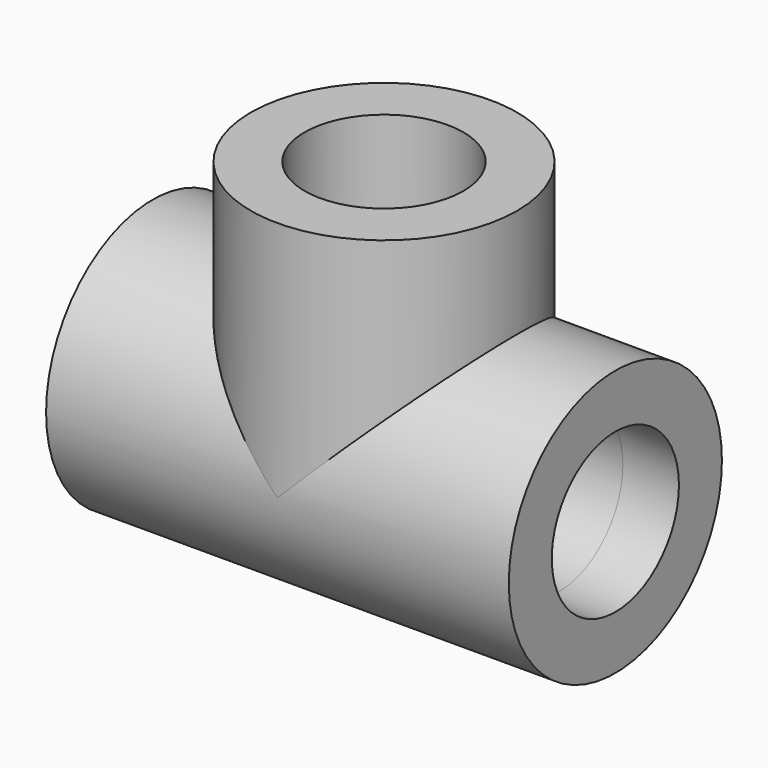
from build123d import *

# Parameters (mm, degrees)
F0_R          = 19
F0_R_2        = 11.335
F1_DEPTH      = 33
F1_DEPTH_BACK = 33
F2_R          = 19
F2_R_2        = 11.335
F3_DEPTH      = 34.5
F4_DEPTH      = 25
F4_DEPTH_BACK = 25


with BuildPart() as f1:
    # F0 (on Right) → F1 (new body, two sides)
    with BuildSketch(Plane.YZ) as f1_sk:
        Circle(F0_R)
        Circle(F0_R_2, mode=Mode.SUBTRACT)
    extrude(amount=F1_DEPTH)
    extrude(f1_sk.sketch, amount=-F1_DEPTH_BACK)

    # F2 (on Top) → F3 (join)
    with BuildSketch(Plane.XY):
        Circle(F2_R)
        Circle(F2_R_2, mode=Mode.SUBTRACT)
    extrude(amount=F3_DEPTH)

    # F0 (on Right) → F4 (cut, two sides)
    with BuildSketch(Plane.YZ) as f4_sk:
        Circle(F0_R_2)
    extrude(amount=-F4_DEPTH, mode=Mode.SUBTRACT)
    extrude(f4_sk.sketch, amount=F4_DEPTH_BACK, mode=Mode.SUBTRACT)


solid = f1.part
